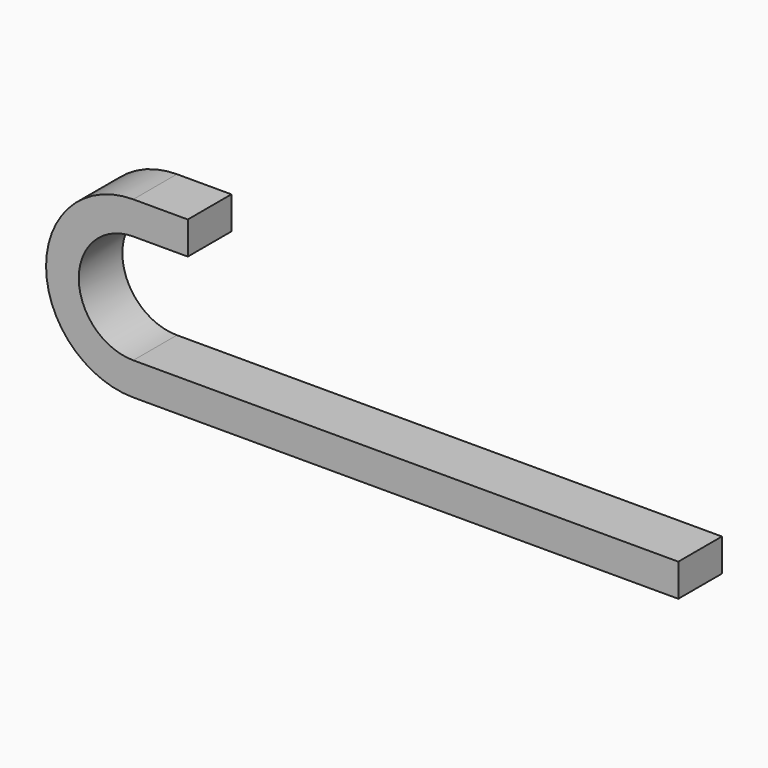
from build123d import *

# Parameters (mm, degrees)
F1_DEPTH = 20


with BuildPart() as f1:
    # F0 (on Front) → F1 (new body)
    with BuildSketch(Plane.XZ):
        with BuildLine():
            Line((0, -12), (0, 0))
            Line((0, 0), (-200, 0))
            ThreePointArc((-200, 0), (-220, 20), (-200, 40))
            Line((-200, 40), (-180, 40))
            Line((-180, 40), (-180, 52))
            Line((-180, 52), (-200, 52))
            ThreePointArc((-200, 52), (-232, 20), (-200, -12))
            Line((-200, -12), (0, -12))
        make_face()
    extrude(amount=-F1_DEPTH)


solid = f1.part
